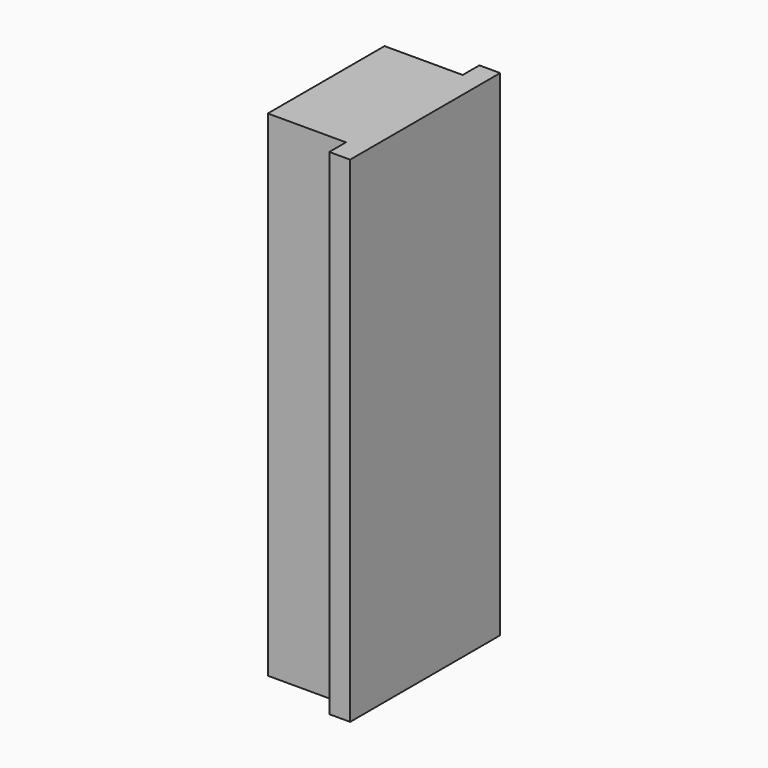
from build123d import *

# Parameters (mm, degrees)
F0_W     = 15
F0_H     = 5
F0_H_2   = 18
F1_DEPTH = 95


with BuildPart() as f1:
    # F0 (on Top) → F1 (new body)
    with BuildSketch(Plane.XY):
        Polygon((2, -18), (2, 18), (-2, 18), (-2, 14), (-2, 9), (-2, -9), (-2, -14), (-2, -18), align=None)
        with Locations((-9.5, 11.5)):
            Rectangle(F0_W, F0_H)
        with Locations((-9.5, 0)):
            Rectangle(F0_W, F0_H_2)
        with Locations((-9.5, -11.5)):
            Rectangle(F0_W, F0_H)
    extrude(amount=F1_DEPTH)


solid = f1.part
